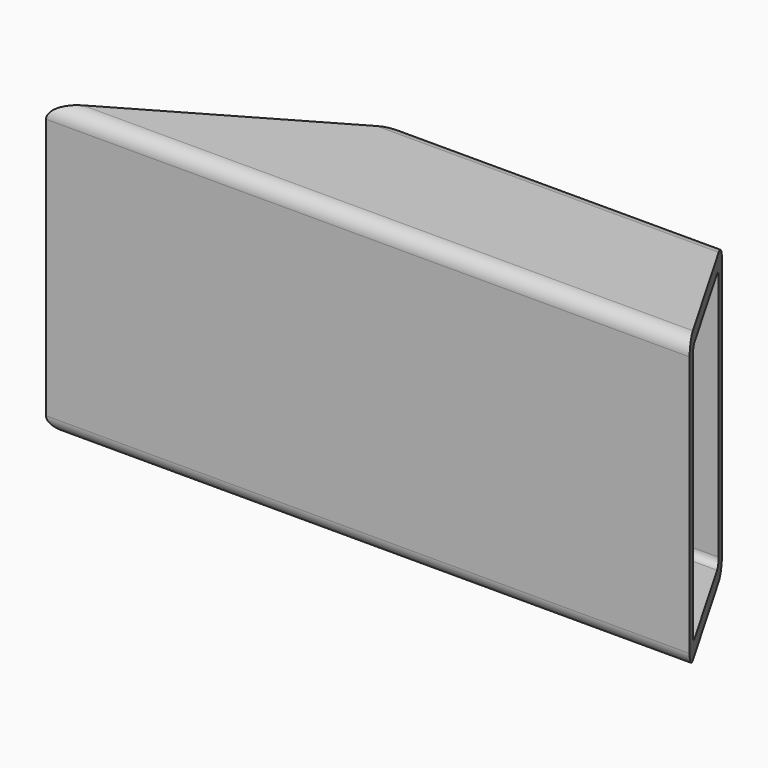
from build123d import *

# Parameters (mm, degrees)
F0_W     = 112.7125
F0_H     = 50.8
F1_DEPTH = 12.7
F2_T     = -2.54
F4_DEPTH = 50.801
F6_DEPTH = 50.801
F7_R     = 2.54
F8_R     = 1.27


with BuildPart() as f1:
    # F0 (on Front) → F1 (new body, symmetric)
    with BuildSketch(Plane.XZ):
        Rectangle(F0_W, F0_H)
    extrude(amount=F1_DEPTH, both=True)

    # F2
    f2_openings = [f1.faces().sort_by_distance(p)[0] for p in [
        (-56.35625, 0, 0),
        (56.35625, 0, 0),
    ]]
    offset(amount=F2_T, openings=f2_openings)

    # F3 (on face) → F4 (cut, through all)
    with BuildSketch(Plane(origin=(0, 0, -25.4), x_dir=(1, 0, 0), z_dir=(0, 0, -1))):
        Polygon((-12.3621594878, -12.7), (-56.35625, 12.7), (-56.35625, -12.7), align=None)
    extrude(amount=-F4_DEPTH, mode=Mode.SUBTRACT)

    # F5 (on face) → F6 (cut, through all)
    with BuildSketch(Plane.XY.offset(25.4)):
        Polygon((41.6915531626, 12.7), (56.35625, -12.7), (56.35625, 12.7), align=None)
    extrude(amount=-F6_DEPTH, mode=Mode.SUBTRACT)

    # F7
    f7_edges = [f1.edges().sort_by_distance(p)[0] for p in [
        (0, -12.7, 25.4),
        (14.664697, 12.7, 25.4),
        (14.664697, 12.7, -25.4),
        (0, -12.7, -25.4),
    ]]
    fillet(f7_edges, radius=F7_R)

    # F8
    f8_edges = [f1.edges().sort_by_distance(p)[0] for p in [
        (13.198227, 10.16, 22.86),
        (1.46647, -10.16, 22.86),
        (1.46647, -10.16, -22.86),
        (13.198227, 10.16, -22.86),
    ]]
    fillet(f8_edges, radius=F8_R)


solid = f1.part
